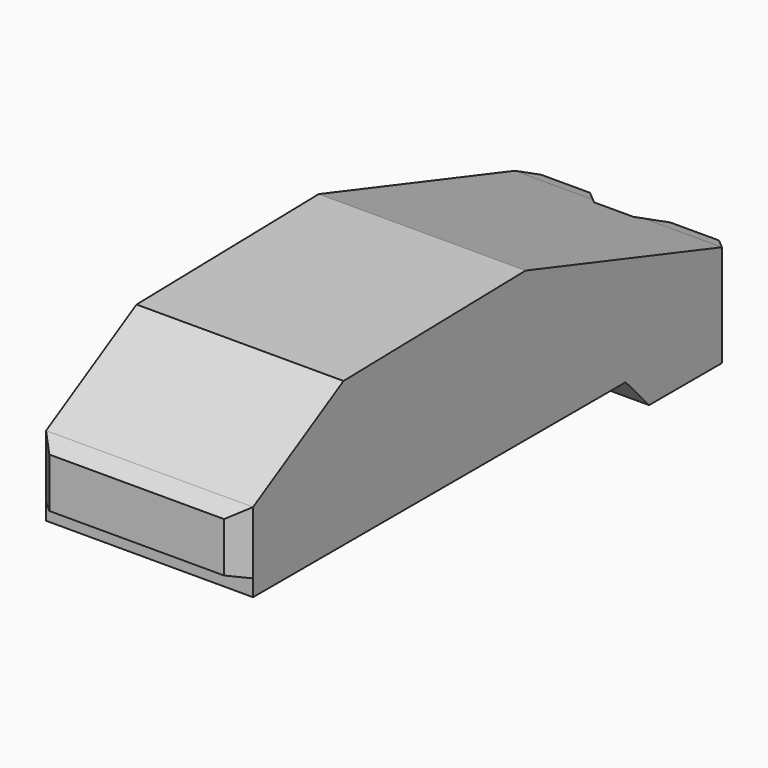
from build123d import *

# Parameters (mm, degrees)
F1_DEPTH = 48
F3_DEPTH = 25


with BuildPart() as f1:
    # F0 (on Top) → F1 (new body)
    with BuildSketch(Plane.XY):
        Polygon((-21.110913, 0), (0, 0), (0, 144.050253), (-4.75, 144.050253), (-9.699747, 149), (-21.464466, 149), (-25, 145.464466), (-25, 3.889087), align=None)
    extrude(amount=F1_DEPTH)

    # F2 (on face) → F3 (cut, through all)
    with BuildSketch(Plane(origin=(-25, 0, 0), x_dir=(0, -1, 0), z_dir=(-1, 0, 0))):
        Polygon((-145.464466, 48), (-145.464466, 24.641155), (-86.190659, 43.772807), (-31.202125, 42.649837), (-3.889087, 26.931672), (-3.889087, 48), align=None)
        Polygon((-116.389087, 7.758158), (-123.464466, 0), (-3.889087, 0), (-3.889087, 7.758158), align=None)
        Polygon((-149, 23.5), (-145.464466, 24.641155), (-145.464466, 48), (-149, 48), align=None)
        Polygon((0, 48), (-3.889087, 48), (-3.889087, 26.931672), (0, 24.693572), align=None)
        Polygon((-3.889087, 7.758158), (-3.889087, 0), (0, 0), (0, 12.693572), (-3.889087, 11.758158), align=None)
    extrude(amount=-F3_DEPTH, mode=Mode.SUBTRACT)

    # F4: F1 across plane


with BuildPart() as f1_1:
    add(f1.part)
    add(f1.part.mirror(Plane.YZ))


solid = f1_1.part
